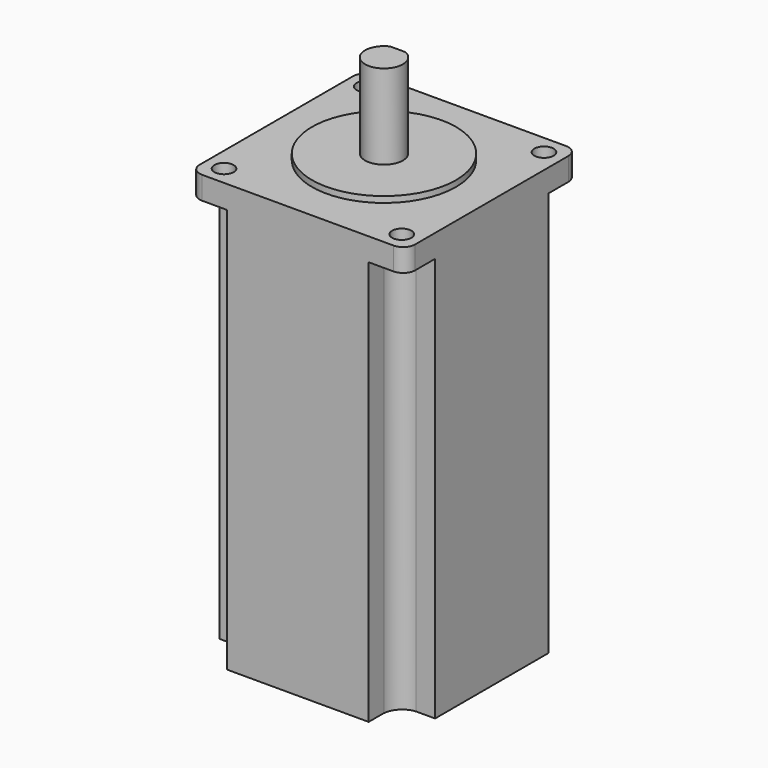
from build123d import *

# Parameters (mm, degrees)
SKETCH_W        = 57.00014
SKETCH_H        = 57.00014
SKETCH_R        = 2.55
PAD_DEPTH       = 113.03
POCKET_DEPTH    = 107
SKETCH002_R     = 19.05
PAD001_DEPTH    = 1.6
SKETCH003_R     = 5
PAD002_DEPTH    = 24
FILLET_R        = 3.175
SKETCH004_W     = 30.604006
SKETCH004_H     = 8.312313
POCKET001_DEPTH = 20


with BuildPart() as part:
    # Sketch → Pad (new body)
    with BuildSketch(Plane.XY):
        Rectangle(SKETCH_W, SKETCH_H)
        with Locations((-23.5, 23.5)):
            Circle(SKETCH_R, mode=Mode.SUBTRACT)
        with Locations((23.5, 23.5)):
            Circle(SKETCH_R, mode=Mode.SUBTRACT)
        with Locations((-23.5, -23.5)):
            Circle(SKETCH_R, mode=Mode.SUBTRACT)
        with Locations((23.5, -23.5)):
            Circle(SKETCH_R, mode=Mode.SUBTRACT)
    extrude(amount=-PAD_DEPTH)

    # Sketch001 (on Face10 of Pad) → Pocket (cut)
    with BuildSketch(Plane(origin=(0, 0, -113.03), x_dir=(1, 0, 0), z_dir=(0, 0, -1))):
        with BuildLine():
            Line((-18.7375, 23.5), (-18.7375, 31.75))
            Line((-18.7375, 31.75), (-31.75, 31.75))
            Line((-31.75, 18.7375), (-31.75, 31.75))
            Line((-23.5, 18.7375), (-31.75, 18.7375))
            ThreePointArc((-23.5, 18.7375), (-20.190744, 20.190744), (-18.7375, 23.5))
        make_face()
        with BuildLine():
            Line((23.5, 18.7375), (31.75, 18.7375))
            Line((31.75, 18.7375), (31.75, 31.75))
            Line((18.7375, 31.75), (31.75, 31.75))
            Line((18.7375, 23.5), (18.7375, 31.75))
            ThreePointArc((18.7375, 23.5), (20.240641, 20.240641), (23.5, 18.7375))
        make_face()
        with BuildLine():
            Line((18.7375, -23.5), (18.7375, -31.75))
            Line((18.7375, -31.75), (31.75, -31.75))
            Line((31.75, -18.7375), (31.75, -31.75))
            Line((23.5, -18.7375), (31.75, -18.7375))
            ThreePointArc((23.5, -18.7375), (20.284094, -20.284094), (18.7375, -23.5))
        make_face()
        with BuildLine():
            Line((-23.5, -18.759919), (-31.75, -18.759919))
            Line((-31.75, -18.759919), (-31.75, -31.75))
            Line((-18.759919, -31.75), (-31.75, -31.75))
            Line((-18.759919, -23.5), (-18.759919, -31.75))
            ThreePointArc((-18.759919, -23.5), (-20.221862, -20.221862), (-23.5, -18.759919))
        make_face()
    extrude(amount=-POCKET_DEPTH, mode=Mode.SUBTRACT)

    # Sketch002 (on Face2 of Pocket) → Pad001 (join)
    with BuildSketch(Plane.XY):
        Circle(SKETCH002_R)
    extrude(amount=PAD001_DEPTH)

    # Sketch003 (on Face2 of Pad001) → Pad002 (join)
    with BuildSketch(Plane.XY):
        Circle(SKETCH003_R)
    extrude(amount=PAD002_DEPTH)

    # Fillet
    fillet_edges = [part.edges().sort_by_distance(p)[0] for p in [
        (28.50007, 28.50007, -3.015),
        (28.50007, -28.50007, -3.015),
        (-28.50007, 28.50007, -3.015),
        (-28.50007, -28.50007, -3.015),
    ]]
    fillet(fillet_edges, radius=FILLET_R)

    # Sketch004 (on Face34 of Fillet) → Pocket001 (cut)
    with BuildSketch(Plane.XY.offset(24)):
        with Locations((0, 8.728156)):
            Rectangle(SKETCH004_W, SKETCH004_H)
    extrude(amount=-POCKET001_DEPTH, mode=Mode.SUBTRACT)


solid = part.part
